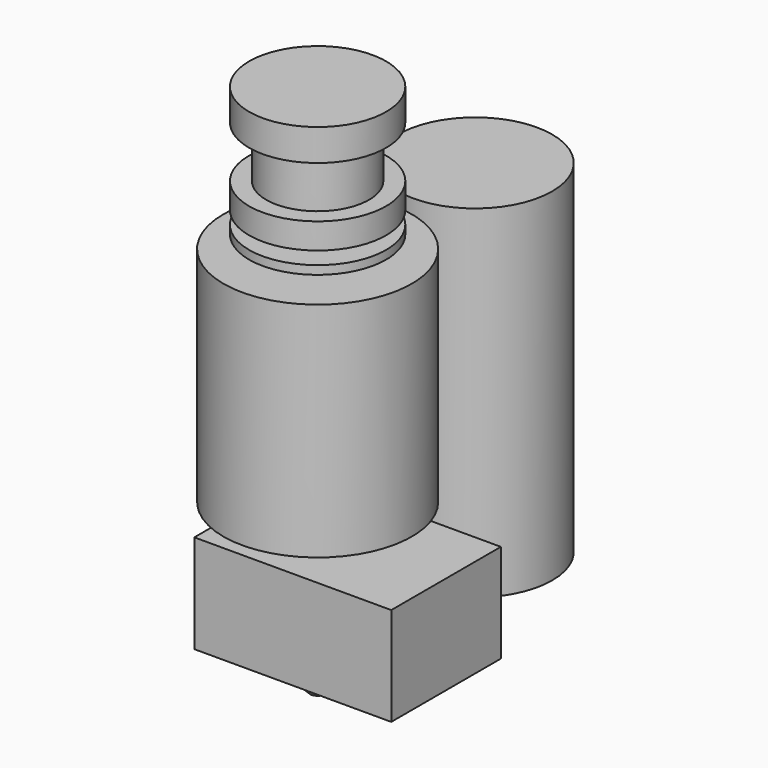
from build123d import *

# Parameters (mm, degrees)
F2_W      = 23
F2_H      = 16
F3_DEPTH  = 11.5
F4_R      = 3.8718113402
F5_DEPTH  = 2
F5_FACE_R = 3.8718113402
F6_DEPTH  = 3
F6_TAPER  = 45
F7_R      = 9
F8_DEPTH  = 40


with BuildPart() as f1:
    # F0 (on Front) → F1 (revolve)
    with BuildSketch(Plane.XZ):
        Polygon((0, 0), (0, 42.7), (-8, 42.7), (-8, 39), (-6, 39), (-6, 33), (-8, 33), (-8, 30), (-3, 30), (-3, 28.5), (-8, 28.5), (-8, 27.5), (-3, 27.5), (-3, 26), (-11, 26), (-11, 0), (-3, 0), (-3, -3), (0, -3), align=None)
    revolve(axis=Axis((0, 0, 21.35), (0, 0, -1)))

    # F2 (on face) → F3 (join)
    with BuildSketch(Plane(origin=(0, 0, -3), x_dir=(1, 0, 0), z_dir=(0, 0, -1))):
        with Locations((3.5, 0)):
            Rectangle(F2_W, F2_H)
    extrude(amount=F3_DEPTH)

    # F4 (on face) → F5 (join)
    with BuildSketch(Plane(origin=(0, 0, -14.5), x_dir=(1, 0, 0), z_dir=(0, 0, -1))):
        Circle(F4_R)
    extrude(amount=F5_DEPTH)

    # F5_face (on face) → F6 (join)
    with BuildSketch(Plane(origin=(0, 0, -16.5), x_dir=(1, 0, 0), z_dir=(0, 0, -1))):
        Circle(F5_FACE_R)
    extrude(amount=F6_DEPTH, taper=F6_TAPER)


with BuildPart() as f8:
    # F7 (on face) → F8 (new body)
    with BuildSketch(Plane(origin=(0, 0, -14.5), x_dir=(1, 0, 0), z_dir=(0, 0, -1))):
        with Locations((0, -23)):
            Circle(F7_R)
    extrude(amount=-F8_DEPTH)


solid = Compound([f1.part, f8.part])
